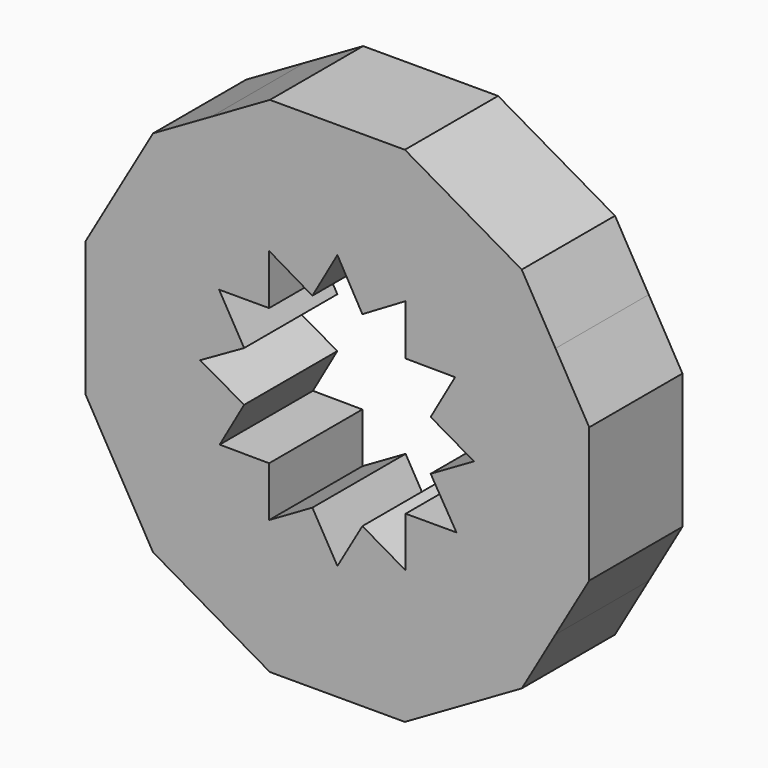
from build123d import *

# Parameters (mm, degrees)
F1_DEPTH = 25.4


with BuildPart() as f1:
    # F0 (on Front) → F1 (new body)
    with BuildSketch(Plane.XZ):
        Polygon((-54.888893, 0), (-54.888893, -14.707435), (-47.535176, -27.444447), (-25.650605, -14.80928), (-20.329327, -5.44726), (-29.912995, 0), align=None)
        Polygon((-54.888893, 14.707435), (-54.888893, 0), (-29.912995, 0), (-20.329327, 5.44726), (-25.776525, 14.882084), (-47.535176, 27.444446), align=None)
        Polygon((-25.650605, -14.80928), (-47.535176, -27.444447), (-40.181458, -40.181459), (-27.444627, -47.535072), (-14.88218, -25.776466), (-14.88218, -14.88207), align=None)
        Polygon((-40.181458, 40.181458), (-47.535176, 27.444446), (-25.776525, 14.882084), (-14.882129, 14.882084), (-14.956498, 25.905414), (-27.444446, 47.535176), align=None)
        Polygon((-14.88218, -25.776466), (-27.444627, -47.535072), (-14.707796, -54.888684), (0, -54.888684), (0, -29.764044), (-5.447217, -20.329187), align=None)
        Polygon((-14.707435, 54.888893), (-27.444446, 47.535176), (-14.956498, 25.905414), (-5.447198, 20.32922), (0, 29.912995), (0, 54.888893), align=None)
        Polygon((0, -29.764044), (0, -54.888684), (14.707796, -54.888684), (27.444627, -47.535072), (14.882022, -25.776418), (5.447198, -20.32922), align=None)
        Polygon((14.707435, 54.888893), (0, 54.888893), (0, 29.912995), (5.447198, 20.32922), (14.88206, 25.905414), (14.88206, 25.776258), (27.444567, 47.534967), align=None)
        Polygon((14.882022, -25.776418), (27.444627, -47.535072), (40.181458, -40.181459), (47.535176, -27.444446), (25.776311, -14.88196), (14.882022, -14.88196), align=None)
        Polygon((40.181699, 40.181041), (27.444567, 47.534967), (14.88206, 25.776258), (14.88206, 14.881861), (25.650404, 14.809271), (47.535296, 27.444238), align=None)
        Polygon((25.776311, -14.88196), (47.535176, -27.444446), (54.888893, -14.707434), (54.888893, 14.707434), (47.535296, 27.444238), (25.650404, 14.809271), (20.329127, 5.447251), (29.764044, 0), (20.32922, -5.447198), (25.948305, -14.88196), align=None)
    extrude(amount=F1_DEPTH)


solid = f1.part
